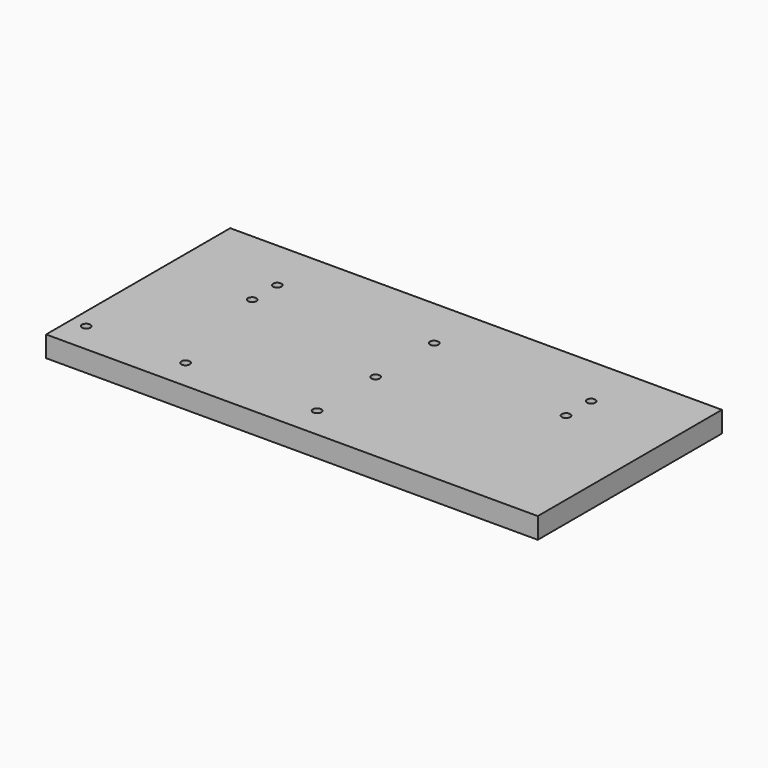
from build123d import *

# Parameters (mm, degrees)
F0_W     = 298.45
F0_H     = 127
F0_H_2   = 12.7
F1_DEPTH = 12.7
F3_D     = 5.1054
F5_D     = 5.1054
F7_D     = 5.1054


with BuildPart() as f1:
    # F0 (on Top) → F1 (new body)
    with BuildSketch(Plane.XY):
        with Locations((-149.225, 63.5)):
            Rectangle(F0_W, F0_H)
        with Locations((-149.225, 133.35)):
            Rectangle(F0_W, F0_H_2)
    extrude(amount=F1_DEPTH)

    # F3 (through all)
    with Locations(Plane.XY.offset(12.7)):
        with Locations((-149.225, 107.95), (-149.225, 63.5), (-149.225, 19.05)):
            Hole(F3_D / 2)

    # F5 (through all)
    with Locations(Plane.XY.offset(12.7)):
        with Locations((-53.975, 88.9), (-53.975, 107.95), (-244.475, 88.9), (-244.475, 107.95)):
            Hole(F5_D / 2)

    # F7 (through all)
    with Locations(Plane(origin=(0, 0, 0), x_dir=(1, 0, 0), z_dir=(0, 0, -1))):
        with Locations((-288.925, -18.5139868408), (-228.6, -18.5139868408)):
            Hole(F7_D / 2)


solid = f1.part
